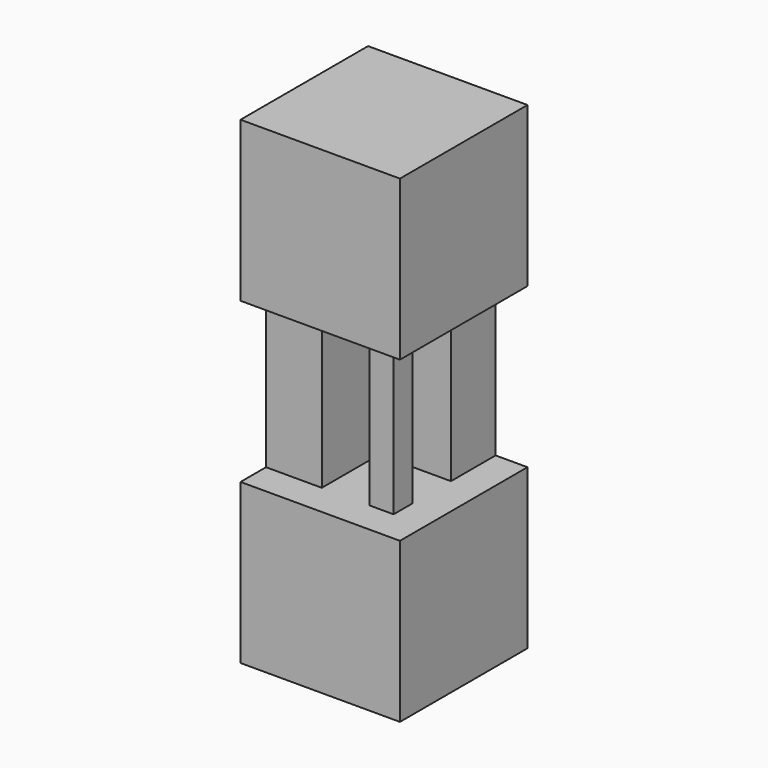
from build123d import *

# Parameters (mm, degrees)
F0_W     = 50
F0_H     = 50
F1_DEPTH = 50
F2_W     = 7.5
F2_H     = 7.5
F3_DEPTH = 50
F4_W     = 50
F4_H     = 50
F5_DEPTH = 50


with BuildPart() as f1:
    # F0 (on Top) → F1 (new body)
    with BuildSketch(Plane.XY):
        Rectangle(F0_W, F0_H)
    extrude(amount=F1_DEPTH)

    # F2 (on face) → F3 (join)
    with BuildSketch(Plane.XY.offset(50)):
        Polygon((15, 25), (-25, 25), (-25, -15), (-7.5, -15), (-7.5, 7.5), (15, 7.5), align=None)
        with Locations((11.25, -11.25)):
            Rectangle(F2_W, F2_H)
    extrude(amount=F3_DEPTH)

    # F4 (on face) → F5 (join)
    with BuildSketch(Plane.XY.offset(100)):
        Rectangle(F4_W, F4_H)
    extrude(amount=F5_DEPTH)


solid = f1.part
